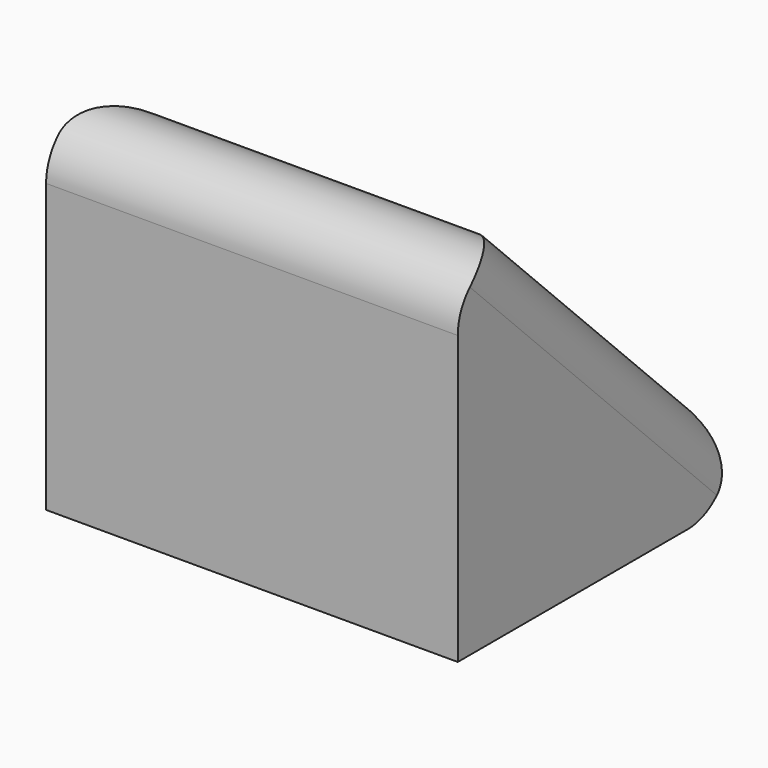
from build123d import *

# Parameters (mm, degrees)
F1_DEPTH = 8
F2_R     = 1


with BuildPart() as f1:
    # F0 (on Right) → F1 (new body)
    with BuildSketch(Plane.YZ):
        Polygon((0, 8), (0, 0), (8, 0), align=None)
    extrude(amount=F1_DEPTH)

    # F2
    f2_edges = [f1.edges().sort_by_distance(p)[0] for p in [
        (4, 0, 8),
        (4, 8, 0),
        (0, 4, 4),
        (8, 4, 4),
    ]]
    fillet(f2_edges, radius=F2_R)


solid = f1.part
